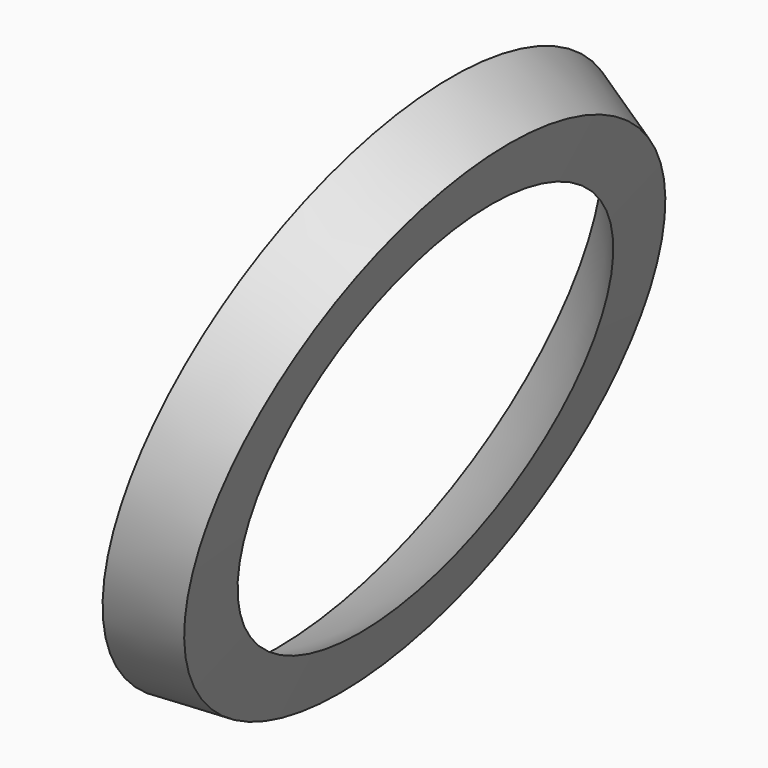
from build123d import *


with BuildPart() as f1:
    # F0 (on Front) → F1 (revolve)
    with BuildSketch(Plane.XZ):
        with BuildLine():
            ThreePointArc((31.6014234875, -94.8754448399), (43.9164542078, -89.8406647895), (55.4541241998, -83.2156241894))
            Line((55.4541241998, -83.2156241894), (74.8903113045, -23.4032222826))
            Line((74.8903113045, -23.4032222826), (55.8007117438, -17.4377224199))
            Line((55.8007117438, -17.4377224199), (31.6014234875, -94.8754448399))
        make_face()
        with BuildLine():
            Line((50, -100), (55.4541241998, -83.2156241894))
            ThreePointArc((55.4541241998, -83.2156241894), (43.9164542078, -89.8406647895), (31.6014234875, -94.8754448399))
            Line((31.6014234875, -94.8754448399), (30, -100))
            Line((30, -100), (50, -100))
        make_face()
    revolve(axis=Axis((65.7125332587, 0, -20.5351666433), (0.954479978, 0, -0.2982749931)))

    # F0 (on Front) → F2 (revolve, cut)
    with BuildSketch(Plane.XZ):
        with BuildLine():
            ThreePointArc((31.6014234875, -94.8754448399), (43.9164542078, -89.8406647895), (55.4541241998, -83.2156241894))
            Line((55.4541241998, -83.2156241894), (74.8903113045, -23.4032222826))
            Line((74.8903113045, -23.4032222826), (55.8007117438, -17.4377224199))
            Line((55.8007117438, -17.4377224199), (31.6014234875, -94.8754448399))
        make_face()
        with BuildLine():
            ThreePointArc((55.4541241998, -83.2156241894), (80.033965138, -59.9546864247), (95.4479978035, -29.8274993136))
            Line((95.4479978035, -29.8274993136), (75.6243547736, -23.6326108668))
            Line((75.6243547736, -23.6326108668), (74.8903113045, -23.4032222826))
            Line((74.8903113045, -23.4032222826), (55.4541241998, -83.2156241894))
        make_face()
    revolve(axis=Axis((75.6243547736, 0, -23.6326108668), (0.954479978, 0, -0.2982749931)), mode=Mode.SUBTRACT)


solid = f1.part
